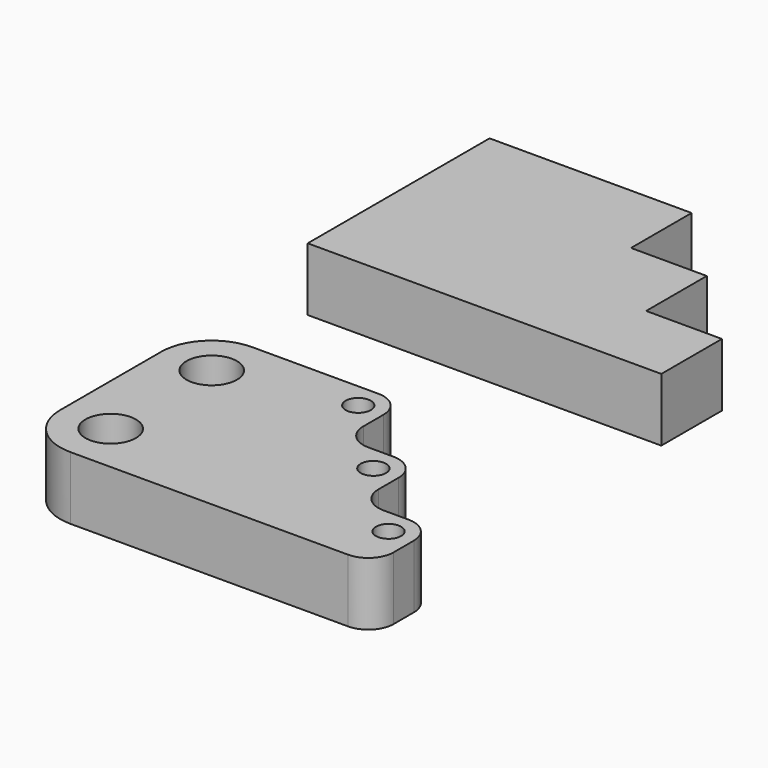
from build123d import *

# Parameters (mm, degrees)
F0_R     = 10
F0_R_2   = 5
F1_DEPTH = 25


with BuildPart() as f1:
    # F0 (on Top) → F1 (new body)
    with BuildSketch(Plane.XY):
        Polygon((-30, 89.858828), (-110, 89.858828), (-110, -0.141172), (30, -0.141172), (30, 29.858828), (0, 29.858828), (0, 59.858828), (-30, 59.858828), align=None)
        Polygon((-30, 89.858828), (-110, 89.858828), (-110, -0.141172), (30, -0.141172), (30, 29.858828), (0, 29.858828), (0, 59.858828), (-30, 59.858828), align=None)
        with BuildLine():
            Line((-80, -155.13972), (30, -155.13972))
            ThreePointArc((30, -155.13972), (37.071068, -152.210788), (40, -145.13972))
            Line((40, -145.13972), (40, -135.13972))
            ThreePointArc((40, -135.13972), (37.071068, -128.068652), (30, -125.13972))
            Line((30, -125.13972), (20, -125.13972))
            ThreePointArc((20, -125.13972), (12.928932, -122.210788), (10, -115.13972))
            Line((10, -115.13972), (10, -105.13972))
            ThreePointArc((10, -105.13972), (7.071068, -98.068652), (0, -95.13972))
            Line((0, -95.13972), (-10, -95.13972))
            ThreePointArc((-10, -95.13972), (-17.071068, -92.210788), (-20, -85.13972))
            Line((-20, -85.13972), (-20, -75.13972))
            ThreePointArc((-20, -75.13972), (-22.928932, -68.068652), (-30, -65.13972))
            Line((-30, -65.13972), (-80, -65.13972))
            ThreePointArc((-80, -65.13972), (-94.142136, -70.997584), (-100, -85.13972))
            Line((-100, -85.13972), (-100, -135.13972))
            ThreePointArc((-100, -135.13972), (-94.142136, -149.281855), (-80, -155.13972))
        make_face()
        with Locations((-80, -135.13972)):
            Circle(F0_R, mode=Mode.SUBTRACT)
        with Locations((-80, -85.13972)):
            Circle(F0_R, mode=Mode.SUBTRACT)
        with Locations((0, -105.13972)):
            Circle(F0_R_2, mode=Mode.SUBTRACT)
        with Locations((30, -135.13972)):
            Circle(F0_R_2, mode=Mode.SUBTRACT)
        with Locations((-30, -75.13972)):
            Circle(F0_R_2, mode=Mode.SUBTRACT)
    extrude(amount=F1_DEPTH)


solid = f1.part
